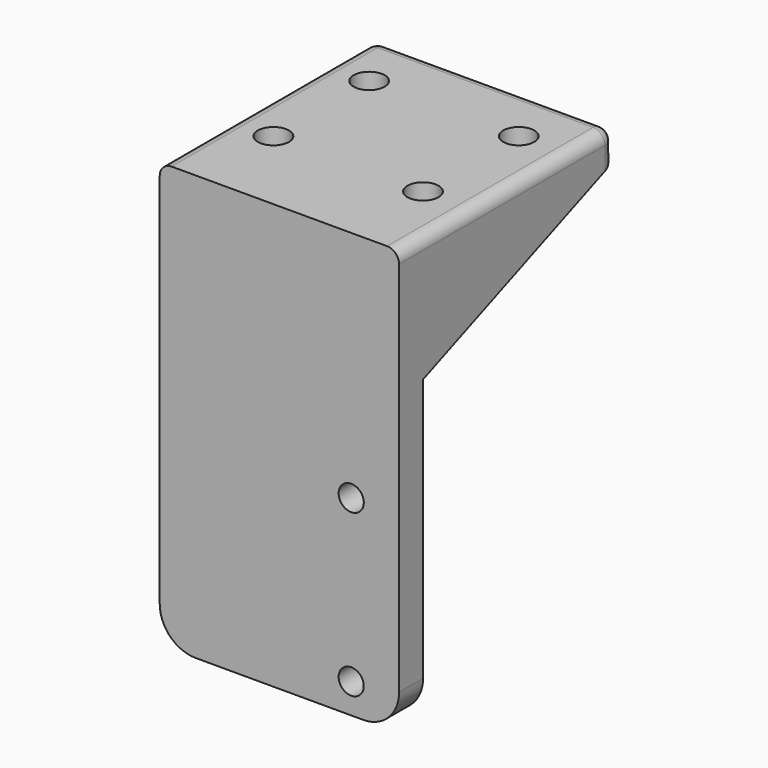
from build123d import *

# Parameters (mm, degrees)
SKETCH_W        = 40
SKETCH_H        = 40
PAD_DEPTH       = 5
SKETCH001_W     = 40
SKETCH001_H     = 5
PAD001_DEPTH    = 71
PAD002_DEPTH    = 40
SKETCH004_R     = 2.1
POCKET_DEPTH    = 10
SKETCH008_R     = 2.6
POCKET002_DEPTH = 30
SKETCH009_R     = 5
POCKET003_DEPTH = 5
FILLET_R        = 2
FILLET001_R     = 2
FILLET002_R     = 2
FILLET003_R     = 6


with BuildPart() as part:
    # Sketch → Pad (new body)
    with BuildSketch(Plane.XY):
        with Locations((20, 20)):
            Rectangle(SKETCH_W, SKETCH_H)
    extrude(amount=PAD_DEPTH)

    # Sketch001 (on DatumPlane) → Pad001 (join)
    with BuildSketch(Plane.XY.offset(5)):
        with Locations((20, -2.5)):
            Rectangle(SKETCH001_W, SKETCH001_H)
    extrude(amount=-PAD001_DEPTH)

    # Sketch002 (on DatumPlane) → Pad002 (join)
    with BuildSketch(Plane.YZ.offset(40)):
        Polygon((40, 0), (0, 0), (0, -16), align=None)
    extrude(amount=-PAD002_DEPTH)

    # Sketch004 → Pocket (cut)
    with BuildSketch(Plane(origin=(0, 0, 0), x_dir=(-1, 0, 0), z_dir=(0, 1, 0))):
        with Locations((-32, -61)):
            Circle(SKETCH004_R)
        with Locations((-32.0014529651, -34.0000000391)):
            Circle(SKETCH004_R)
    extrude(amount=-POCKET_DEPTH, mode=Mode.SUBTRACT)

    # Sketch008 → Pocket002 (cut)
    with BuildSketch(Plane.XY.offset(5)):
        with Locations((7, 10)):
            Circle(SKETCH008_R)
        with Locations((32, 10)):
            Circle(SKETCH008_R)
        with Locations((32, 30)):
            Circle(SKETCH008_R)
        with Locations((7, 30)):
            Circle(SKETCH008_R)
    extrude(amount=-POCKET002_DEPTH, mode=Mode.SUBTRACT)

    # Sketch009 (on DatumPlane) → Pocket003 (cut)
    with BuildSketch(Plane(origin=(0, 5.5172413793, -13.7931034483), x_dir=(1, 0, 0), z_dir=(0, 0.3713906764, -0.9284766909))):
        with Locations((7.014635, -4.727969)):
            Circle(SKETCH009_R)
        with Locations((31.764727, -4.731389)):
            Circle(SKETCH009_R)
        with Locations((31.809804, -26.362438)):
            Circle(SKETCH009_R)
        with Locations((6.861452, -26.34057)):
            Circle(SKETCH009_R)
    extrude(amount=-POCKET003_DEPTH, mode=Mode.SUBTRACT)

    # Fillet
    fillet_edges = [part.edges().sort_by_distance(p)[0] for p in [
        (40, 20, 5),
    ]]
    fillet(fillet_edges, radius=FILLET_R)

    # Fillet001
    fillet001_edges = [part.edges().sort_by_distance(p)[0] for p in [
        (19, 40, 5),
    ]]
    fillet(fillet001_edges, radius=FILLET001_R)

    # Fillet002
    fillet002_edges = [part.edges().sort_by_distance(p)[0] for p in [
        (0, 19, 5),
    ]]
    fillet(fillet002_edges, radius=FILLET002_R)

    # Fillet003
    fillet003_edges = [part.edges().sort_by_distance(p)[0] for p in [
        (40, -2.5, -66),
        (0, -2.5, -66),
    ]]
    fillet(fillet003_edges, radius=FILLET003_R)


solid = part.part
